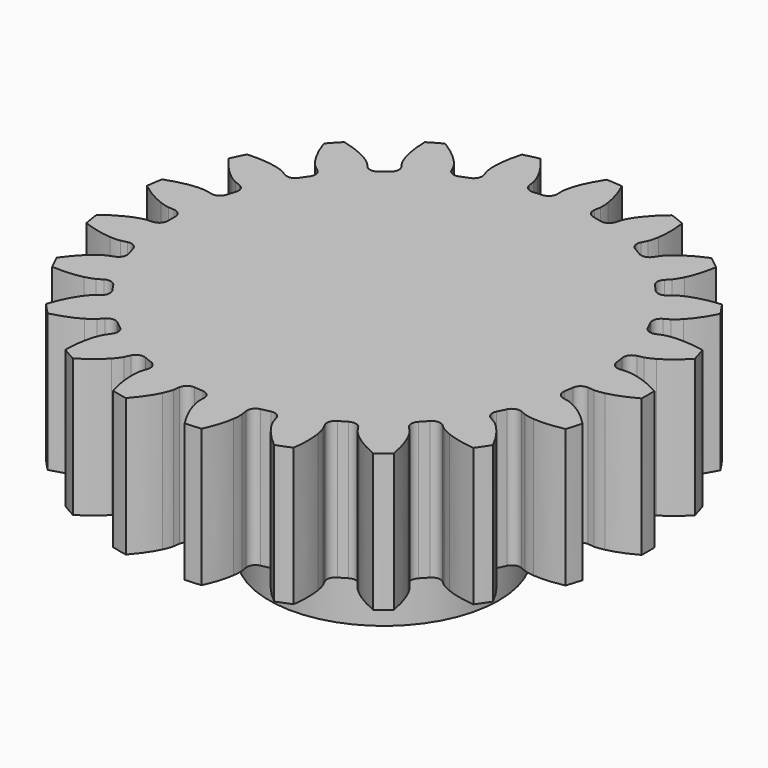
from build123d import *

# Parameters (mm, degrees)
PAD_DEPTH    = 3
SKETCH_R     = 2.5
PAD001_DEPTH = 2


with BuildPart() as part:
    # InvoluteGear → Pad (new body)
    with BuildSketch(Plane.XY):
        with BuildLine():
            Line((4.789511, -0.430795), (4.922653, -0.442395))
            add(Edge.make_bspline(
                [(4.922653, -0.442395), (4.94666, -0.443097), (5.018935, -0.442322), (5.139475, -0.416367)],
                knots=[0, 0, 0, 0, 1, 1, 1, 1], degree=3))
            add(Edge.make_bspline(
                [(5.139475, -0.416367), (5.283716, -0.384851), (5.491453, -0.31757), (5.747878, -0.17494)],
                knots=[0, 0, 0, 0, 1, 1, 1, 1], degree=3))
            ThreePointArc((5.747878, -0.17494), (5.75054, 0), (5.747878, 0.17494))
            add(Edge.make_bspline(
                [(5.747878, 0.17494), (5.491453, 0.31757), (5.283716, 0.384851), (5.139475, 0.416367)],
                knots=[0, 0, 0, 0, 1, 1, 1, 1], degree=3))
            add(Edge.make_bspline(
                [(5.139475, 0.416367), (5.018935, 0.442322), (4.94666, 0.443097), (4.922653, 0.442395)],
                knots=[0, 0, 0, 0, 1, 1, 1, 1], degree=3))
            Line((4.922653, 0.442395), (4.789511, 0.430795))
            ThreePointArc((4.789511, 0.430795), (4.655422, 0.471258), (4.586782, 0.593346))
            ThreePointArc((4.586782, 0.593346), (4.573343, 0.68932), (4.557896, 0.784992))
            ThreePointArc((4.557896, 0.784992), (4.587501, 0.921889), (4.703706, 1.000077))
            Line((4.703706, 1.000077), (4.834351, 1.028237))
            add(Edge.make_bspline(
                [(4.834351, 1.028237), (4.857498, 1.034642), (4.926335, 1.056686), (5.033869, 1.117018)],
                knots=[0, 0, 0, 0, 1, 1, 1, 1], degree=3))
            add(Edge.make_bspline(
                [(5.033869, 1.117018), (5.162413, 1.189649), (5.341089, 1.315173), (5.54408, 1.527049)],
                knots=[0, 0, 0, 0, 1, 1, 1, 1], degree=3))
            ThreePointArc((5.54408, 1.527049), (5.495059, 1.695001), (5.440951, 1.861385))
            add(Edge.make_bspline(
                [(5.440951, 1.861385), (5.153878, 1.922096), (4.935539, 1.925156), (4.788416, 1.912756)],
                knots=[0, 0, 0, 0, 1, 1, 1, 1], degree=3))
            add(Edge.make_bspline(
                [(4.788416, 1.912756), (4.665581, 1.902028), (4.596288, 1.881465), (4.573555, 1.873718)],
                knots=[0, 0, 0, 0, 1, 1, 1, 1], degree=3))
            Line((4.573555, 1.873718), (4.449747, 1.82339))
            ThreePointArc((4.449747, 1.82339), (4.309689, 1.822531), (4.208112, 1.918963))
            ThreePointArc((4.208112, 1.918963), (4.166981, 2.006712), (4.12402, 2.093581))
            ThreePointArc((4.12402, 2.093581), (4.111959, 2.233121), (4.199955, 2.342088))
            Line((4.199955, 2.342088), (4.316496, 2.407505))
            add(Edge.make_bspline(
                [(4.316496, 2.407505), (4.336727, 2.420449), (4.396008, 2.461803), (4.480982, 2.551151)],
                knots=[0, 0, 0, 0, 1, 1, 1, 1], degree=3))
            add(Edge.make_bspline(
                [(4.480982, 2.551151), (4.582406, 2.658444), (4.716145, 2.831057), (4.847667, 3.093353)],
                knots=[0, 0, 0, 0, 1, 1, 1, 1], degree=3))
            ThreePointArc((4.847667, 3.093353), (4.751319, 3.239394), (4.650572, 3.382437))
            add(Edge.make_bspline(
                [(4.650572, 3.382437), (4.358358, 3.355835), (4.148817, 3.294402), (4.011886, 3.239188)],
                knots=[0, 0, 0, 0, 1, 1, 1, 1], degree=3))
            add(Edge.make_bspline(
                [(4.011886, 3.239188), (3.89767, 3.192731), (3.837517, 3.152656), (3.818076, 3.138553)],
                knots=[0, 0, 0, 0, 1, 1, 1, 1], degree=3))
            Line((3.818076, 3.138553), (3.714604, 3.053967))
            ThreePointArc((3.714604, 3.053967), (3.581021, 3.011864), (3.455533, 3.074071))
            ThreePointArc((3.455533, 3.074071), (3.390365, 3.145799), (3.323708, 3.216145))
            ThreePointArc((3.323708, 3.216145), (3.271053, 3.345931), (3.323021, 3.475994))
            Line((3.323021, 3.475994), (3.415102, 3.572856))
            add(Edge.make_bspline(
                [(3.415102, 3.572856), (3.430619, 3.591188), (3.475077, 3.648178), (3.529939, 3.758603)],
                knots=[0, 0, 0, 0, 1, 1, 1, 1], degree=3))
            add(Edge.make_bspline(
                [(3.529939, 3.758603), (3.595232, 3.891025), (3.672152, 4.095389), (3.720517, 4.384799)],
                knots=[0, 0, 0, 0, 1, 1, 1, 1], degree=3))
            ThreePointArc((3.720517, 4.384799), (3.585403, 4.495953), (3.44697, 4.602945))
            add(Edge.make_bspline(
                [(3.44697, 4.602945), (3.175578, 4.491393), (2.993454, 4.370927), (2.878881, 4.277804)],
                knots=[0, 0, 0, 0, 1, 1, 1, 1], degree=3))
            add(Edge.make_bspline(
                [(2.878881, 4.277804), (2.783433, 4.199745), (2.737765, 4.14372), (2.723345, 4.124513)],
                knots=[0, 0, 0, 0, 1, 1, 1, 1], degree=3))
            Line((2.723345, 4.124513), (2.649402, 4.013187))
            ThreePointArc((2.649402, 4.013187), (2.534164, 3.93358), (2.395915, 3.956035))
            ThreePointArc((2.395915, 3.956035), (2.3125, 4.005367), (2.22807, 4.052941))
            ThreePointArc((2.22807, 4.052941), (2.139498, 4.16144), (2.150821, 4.301043))
            Line((2.150821, 4.301043), (2.210261, 4.420743))
            add(Edge.make_bspline(
                [(2.210261, 4.420743), (2.219685, 4.442834), (2.245369, 4.510397), (2.265247, 4.632087)],
                knots=[0, 0, 0, 0, 1, 1, 1, 1], degree=3))
            add(Edge.make_bspline(
                [(2.265247, 4.632087), (2.288606, 4.777871), (2.301871, 4.995828), (2.262783, 5.286636)],
                knots=[0, 0, 0, 0, 1, 1, 1, 1], degree=3))
            ThreePointArc((2.262783, 5.286636), (2.100908, 5.353026), (1.937089, 5.414461))
            add(Edge.make_bspline(
                [(1.937089, 5.414461), (1.710635, 5.227871), (1.57211, 5.059075), (1.490076, 4.936319)],
                knots=[0, 0, 0, 0, 1, 1, 1, 1], degree=3))
            add(Edge.make_bspline(
                [(1.490076, 4.936319), (1.421877, 4.833594), (1.394751, 4.766597), (1.386633, 4.743993)],
                knots=[0, 0, 0, 0, 1, 1, 1, 1], degree=3))
            Line((1.386633, 4.743993), (1.348789, 4.615817))
            ThreePointArc((1.348789, 4.615817), (1.262135, 4.50578), (1.123409, 4.486488))
            ThreePointArc((1.123409, 4.486488), (1.029159, 4.509042), (0.934457, 4.529615))
            ThreePointArc((0.934457, 4.529615), (0.81784, 4.607188), (0.787511, 4.743925))
            Line((0.787511, 4.743925), (0.809028, 4.875828))
            add(Edge.make_bspline(
                [(0.809028, 4.875828), (0.811522, 4.899715), (0.816151, 4.971847), (0.799277, 5.093989)],
                knots=[0, 0, 0, 0, 1, 1, 1, 1], degree=3))
            add(Edge.make_bspline(
                [(0.799277, 5.093989), (0.778628, 5.240182), (0.727059, 5.452366), (0.60399, 5.718732)],
                knots=[0, 0, 0, 0, 1, 1, 1, 1], degree=3))
            ThreePointArc((0.60399, 5.718732), (0.429738, 5.73446), (0.255089, 5.744879))
            add(Edge.make_bspline(
                [(0.255089, 5.744879), (0.093694, 5.49983), (0.011077, 5.297702), (-0.03113, 5.156219)],
                knots=[0, 0, 0, 0, 1, 1, 1, 1], degree=3))
            add(Edge.make_bspline(
                [(-0.03113, 5.156219), (-0.06602, 5.037956), (-0.072193, 4.96594), (-0.073288, 4.941948)],
                knots=[0, 0, 0, 0, 1, 1, 1, 1], degree=3))
            Line((-0.073288, 4.941948), (-0.07167, 4.808312))
            ThreePointArc((-0.07167, 4.808312), (-0.12204, 4.677622), (-0.248916, 4.618297))
            ThreePointArc((-0.248916, 4.618297), (-0.345627, 4.612068), (-0.442185, 4.603813))
            ThreePointArc((-0.442185, 4.603813), (-0.576486, 4.643566), (-0.645772, 4.765289))
            Line((-0.645772, 4.765289), (-0.66409, 4.897673))
            add(Edge.make_bspline(
                [(-0.66409, 4.897673), (-0.668748, 4.921235), (-0.685586, 4.991526), (-0.737713, 5.103268)],
                knots=[0, 0, 0, 0, 1, 1, 1, 1], degree=3))
            add(Edge.make_bspline(
                [(-0.737713, 5.103268), (-0.800535, 5.23688), (-0.912355, 5.424437), (-1.108469, 5.642694)],
                knots=[0, 0, 0, 0, 1, 1, 1, 1], degree=3))
            ThreePointArc((-1.108469, 5.642694), (-1.279615, 5.606362), (-1.449577, 5.564839))
            add(Edge.make_bspline(
                [(-1.449577, 5.564839), (-1.531572, 5.283105), (-1.55094, 5.065605), (-1.549569, 4.917967)],
                knots=[0, 0, 0, 0, 1, 1, 1, 1], degree=3))
            add(Edge.make_bspline(
                [(-1.549569, 4.917967), (-1.548051, 4.794674), (-1.532723, 4.724038), (-1.526696, 4.700789)],
                knots=[0, 0, 0, 0, 1, 1, 1, 1], degree=3))
            Line((-1.526696, 4.700789), (-1.485761, 4.573567))
            ThreePointArc((-1.485761, 4.573567), (-1.495371, 4.433836), (-1.599124, 4.33975))
            ThreePointArc((-1.599124, 4.33975), (-1.689702, 4.305291), (-1.779538, 4.268942))
            ThreePointArc((-1.779538, 4.268942), (-1.91959, 4.267343), (-2.021676, 4.363236))
            Line((-2.021676, 4.363236), (-2.078201, 4.48434))
            add(Edge.make_bspline(
                [(-2.078201, 4.48434), (-2.089597, 4.505481), (-2.126405, 4.567687), (-2.209153, 4.6591)],
                knots=[0, 0, 0, 0, 1, 1, 1, 1], degree=3))
            add(Edge.make_bspline(
                [(-2.209153, 4.6591), (-2.308567, 4.768258), (-2.470702, 4.914523), (-2.722436, 5.065278)],
                knots=[0, 0, 0, 0, 1, 1, 1, 1], degree=3))
            ThreePointArc((-2.722436, 5.065278), (-2.87527, 4.980113), (-3.025441, 4.890338))
            add(Edge.make_bspline(
                [(-3.025441, 4.890338), (-3.020751, 4.596953), (-2.975149, 4.383407), (-2.930322, 4.242732)],
                knots=[0, 0, 0, 0, 1, 1, 1, 1], degree=3))
            add(Edge.make_bspline(
                [(-2.930322, 4.242732), (-2.89253, 4.125364), (-2.857063, 4.062385), (-2.844452, 4.041945)],
                knots=[0, 0, 0, 0, 1, 1, 1, 1], degree=3))
            Line((-2.844452, 4.041945), (-2.767835, 3.93244))
            ThreePointArc((-2.767835, 3.93244), (-2.735832, 3.796085), (-2.807243, 3.675596))
            ThreePointArc((-2.807243, 3.675596), (-2.88364, 3.615971), (-2.958771, 3.554757))
            ThreePointArc((-2.958771, 3.554757), (-3.092129, 3.511948), (-3.217945, 3.57349))
            Line((-3.217945, 3.57349), (-3.307655, 3.672552))
            add(Edge.make_bspline(
                [(-3.307655, 3.672552), (-3.324776, 3.689396), (-3.378284, 3.737988), (-3.4843, 3.80095)],
                knots=[0, 0, 0, 0, 1, 1, 1, 1], degree=3))
            add(Edge.make_bspline(
                [(-3.4843, 3.80095), (-3.611473, 3.875956), (-3.809517, 3.967932), (-4.094503, 4.03779)],
                knots=[0, 0, 0, 0, 1, 1, 1, 1], degree=3))
            ThreePointArc((-4.094503, 4.03779), (-4.215444, 3.91136), (-4.332482, 3.78131))
            add(Edge.make_bspline(
                [(-4.332482, 3.78131), (-4.241523, 3.502341), (-4.135003, 3.311724), (-4.050704, 3.190512)],
                knots=[0, 0, 0, 0, 1, 1, 1, 1], degree=3))
            add(Edge.make_bspline(
                [(-4.050704, 3.190512), (-3.979996, 3.089498), (-3.92754, 3.03977), (-3.909465, 3.023956)],
                knots=[0, 0, 0, 0, 1, 1, 1, 1], degree=3))
            Line((-3.909465, 3.023956), (-3.803975, 2.941899))
            ThreePointArc((-3.803975, 2.941899), (-3.733203, 2.821035), (-3.765927, 2.68485))
            ThreePointArc((-3.765927, 2.68485), (-3.821354, 2.605355), (-3.875104, 2.524716))
            ThreePointArc((-3.875104, 2.524716), (-3.989919, 2.444501), (-4.128285, 2.466224))
            Line((-4.128285, 2.466224), (-4.243209, 2.534443))
            add(Edge.make_bspline(
                [(-4.243209, 2.534443), (-4.264534, 2.545491), (-4.329988, 2.576153), (-4.449852, 2.605069)],
                knots=[0, 0, 0, 0, 1, 1, 1, 1], degree=3))
            add(Edge.make_bspline(
                [(-4.449852, 2.605069), (-4.593483, 2.639258), (-4.80984, 2.668773), (-5.102755, 2.651526)],
                knots=[0, 0, 0, 0, 1, 1, 1, 1], degree=3))
            ThreePointArc((-5.102755, 2.651526), (-5.181057, 2.495066), (-5.254563, 2.336295))
            add(Edge.make_bspline(
                [(-5.254563, 2.336295), (-5.085417, 2.096531), (-4.927445, 1.94578), (-4.811162, 1.854801)],
                knots=[0, 0, 0, 0, 1, 1, 1, 1], degree=3))
            add(Edge.make_bspline(
                [(-4.811162, 1.854801), (-4.713821, 1.779116), (-4.649039, 1.747059), (-4.627105, 1.737275)],
                knots=[0, 0, 0, 0, 1, 1, 1, 1], degree=3))
            Line((-4.627105, 1.737275), (-4.502115, 1.689958))
            ThreePointArc((-4.502115, 1.689958), (-4.398862, 1.595323), (-4.389991, 1.455544))
            ThreePointArc((-4.389991, 1.455544), (-4.419524, 1.363243), (-4.447117, 1.270343))
            ThreePointArc((-4.447117, 1.270343), (-4.533188, 1.159849), (-4.671809, 1.139823))
            Line((-4.671809, 1.139823), (-4.801735, 1.171137))
            add(Edge.make_bspline(
                [(-4.801735, 1.171137), (-4.825369, 1.175409), (-4.896953, 1.185416), (-5.020015, 1.177716)],
                knots=[0, 0, 0, 0, 1, 1, 1, 1], degree=3))
            add(Edge.make_bspline(
                [(-5.020015, 1.177716), (-5.167342, 1.16805), (-5.382787, 1.132482), (-5.657605, 1.029663)],
                knots=[0, 0, 0, 0, 1, 1, 1, 1], degree=3))
            ThreePointArc((-5.657605, 1.029663), (-5.686311, 0.857073), (-5.709752, 0.683691))
            add(Edge.make_bspline(
                [(-5.709752, 0.683691), (-5.47745, 0.504435), (-5.282061, 0.406944), (-5.144128, 0.354282)],
                knots=[0, 0, 0, 0, 1, 1, 1, 1], degree=3))
            add(Edge.make_bspline(
                [(-5.144128, 0.354282), (-5.028803, 0.310651), (-4.95745, 0.299114), (-4.933606, 0.29623)],
                knots=[0, 0, 0, 0, 1, 1, 1, 1], degree=3))
            Line((-4.933606, 0.29623), (-4.800223, 0.287856))
            ThreePointArc((-4.800223, 0.287856), (-4.673662, 0.22786), (-4.623985, 0.096906))
            ThreePointArc((-4.623985, 0.096906), (-4.625, 0), (-4.623985, -0.096906))
            ThreePointArc((-4.623985, -0.096906), (-4.673662, -0.22786), (-4.800223, -0.287856))
            Line((-4.800223, -0.287856), (-4.933606, -0.29623))
            add(Edge.make_bspline(
                [(-4.933606, -0.29623), (-4.95745, -0.299114), (-5.028803, -0.310651), (-5.144128, -0.354282)],
                knots=[0, 0, 0, 0, 1, 1, 1, 1], degree=3))
            add(Edge.make_bspline(
                [(-5.144128, -0.354282), (-5.282061, -0.406944), (-5.47745, -0.504435), (-5.709752, -0.683691)],
                knots=[0, 0, 0, 0, 1, 1, 1, 1], degree=3))
            ThreePointArc((-5.709752, -0.683691), (-5.686311, -0.857073), (-5.657605, -1.029663))
            add(Edge.make_bspline(
                [(-5.657605, -1.029663), (-5.382787, -1.132482), (-5.167342, -1.16805), (-5.020015, -1.177716)],
                knots=[0, 0, 0, 0, 1, 1, 1, 1], degree=3))
            add(Edge.make_bspline(
                [(-5.020015, -1.177716), (-4.896953, -1.185416), (-4.825369, -1.175409), (-4.801735, -1.171137)],
                knots=[0, 0, 0, 0, 1, 1, 1, 1], degree=3))
            Line((-4.801735, -1.171137), (-4.671809, -1.139823))
            ThreePointArc((-4.671809, -1.139823), (-4.533188, -1.159849), (-4.447117, -1.270343))
            ThreePointArc((-4.447117, -1.270343), (-4.419524, -1.363243), (-4.389991, -1.455544))
            ThreePointArc((-4.389991, -1.455544), (-4.398862, -1.595323), (-4.502115, -1.689958))
            Line((-4.502115, -1.689958), (-4.627105, -1.737275))
            add(Edge.make_bspline(
                [(-4.627105, -1.737275), (-4.649039, -1.747059), (-4.713821, -1.779116), (-4.811162, -1.854801)],
                knots=[0, 0, 0, 0, 1, 1, 1, 1], degree=3))
            add(Edge.make_bspline(
                [(-4.811162, -1.854801), (-4.927445, -1.94578), (-5.085417, -2.096531), (-5.254563, -2.336295)],
                knots=[0, 0, 0, 0, 1, 1, 1, 1], degree=3))
            ThreePointArc((-5.254563, -2.336295), (-5.181057, -2.495066), (-5.102755, -2.651526))
            add(Edge.make_bspline(
                [(-5.102755, -2.651526), (-4.80984, -2.668773), (-4.593483, -2.639258), (-4.449852, -2.605069)],
                knots=[0, 0, 0, 0, 1, 1, 1, 1], degree=3))
            add(Edge.make_bspline(
                [(-4.449852, -2.605069), (-4.329988, -2.576153), (-4.264534, -2.545491), (-4.243209, -2.534443)],
                knots=[0, 0, 0, 0, 1, 1, 1, 1], degree=3))
            Line((-4.243209, -2.534443), (-4.128285, -2.466224))
            ThreePointArc((-4.128285, -2.466224), (-3.989919, -2.444501), (-3.875104, -2.524716))
            ThreePointArc((-3.875104, -2.524716), (-3.821354, -2.605355), (-3.765927, -2.68485))
            ThreePointArc((-3.765927, -2.68485), (-3.733203, -2.821035), (-3.803975, -2.941899))
            Line((-3.803975, -2.941899), (-3.909465, -3.023956))
            add(Edge.make_bspline(
                [(-3.909465, -3.023956), (-3.92754, -3.03977), (-3.979996, -3.089498), (-4.050704, -3.190512)],
                knots=[0, 0, 0, 0, 1, 1, 1, 1], degree=3))
            add(Edge.make_bspline(
                [(-4.050704, -3.190512), (-4.135003, -3.311724), (-4.241523, -3.502341), (-4.332482, -3.78131)],
                knots=[0, 0, 0, 0, 1, 1, 1, 1], degree=3))
            ThreePointArc((-4.332482, -3.78131), (-4.215444, -3.91136), (-4.094503, -4.03779))
            add(Edge.make_bspline(
                [(-4.094503, -4.03779), (-3.809517, -3.967932), (-3.611473, -3.875956), (-3.4843, -3.80095)],
                knots=[0, 0, 0, 0, 1, 1, 1, 1], degree=3))
            add(Edge.make_bspline(
                [(-3.4843, -3.80095), (-3.378284, -3.737988), (-3.324776, -3.689396), (-3.307655, -3.672552)],
                knots=[0, 0, 0, 0, 1, 1, 1, 1], degree=3))
            Line((-3.307655, -3.672552), (-3.217945, -3.57349))
            ThreePointArc((-3.217945, -3.57349), (-3.092129, -3.511948), (-2.958771, -3.554757))
            ThreePointArc((-2.958771, -3.554757), (-2.88364, -3.615971), (-2.807243, -3.675596))
            ThreePointArc((-2.807243, -3.675596), (-2.735832, -3.796085), (-2.767835, -3.93244))
            Line((-2.767835, -3.93244), (-2.844452, -4.041945))
            add(Edge.make_bspline(
                [(-2.844452, -4.041945), (-2.857063, -4.062385), (-2.89253, -4.125364), (-2.930322, -4.242732)],
                knots=[0, 0, 0, 0, 1, 1, 1, 1], degree=3))
            add(Edge.make_bspline(
                [(-2.930322, -4.242732), (-2.975149, -4.383407), (-3.020751, -4.596953), (-3.025441, -4.890338)],
                knots=[0, 0, 0, 0, 1, 1, 1, 1], degree=3))
            ThreePointArc((-3.025441, -4.890338), (-2.87527, -4.980113), (-2.722436, -5.065278))
            add(Edge.make_bspline(
                [(-2.722436, -5.065278), (-2.470702, -4.914523), (-2.308567, -4.768258), (-2.209153, -4.6591)],
                knots=[0, 0, 0, 0, 1, 1, 1, 1], degree=3))
            add(Edge.make_bspline(
                [(-2.209153, -4.6591), (-2.126405, -4.567687), (-2.089597, -4.505481), (-2.078201, -4.48434)],
                knots=[0, 0, 0, 0, 1, 1, 1, 1], degree=3))
            Line((-2.078201, -4.48434), (-2.021676, -4.363236))
            ThreePointArc((-2.021676, -4.363236), (-1.91959, -4.267343), (-1.779538, -4.268942))
            ThreePointArc((-1.779538, -4.268942), (-1.689702, -4.305291), (-1.599124, -4.33975))
            ThreePointArc((-1.599124, -4.33975), (-1.495371, -4.433836), (-1.485761, -4.573567))
            Line((-1.485761, -4.573567), (-1.526696, -4.700789))
            add(Edge.make_bspline(
                [(-1.526696, -4.700789), (-1.532723, -4.724038), (-1.548051, -4.794674), (-1.549569, -4.917967)],
                knots=[0, 0, 0, 0, 1, 1, 1, 1], degree=3))
            add(Edge.make_bspline(
                [(-1.549569, -4.917967), (-1.55094, -5.065605), (-1.531572, -5.283105), (-1.449577, -5.564839)],
                knots=[0, 0, 0, 0, 1, 1, 1, 1], degree=3))
            ThreePointArc((-1.449577, -5.564839), (-1.279615, -5.606362), (-1.108469, -5.642694))
            add(Edge.make_bspline(
                [(-1.108469, -5.642694), (-0.912355, -5.424437), (-0.800535, -5.23688), (-0.737713, -5.103268)],
                knots=[0, 0, 0, 0, 1, 1, 1, 1], degree=3))
            add(Edge.make_bspline(
                [(-0.737713, -5.103268), (-0.685586, -4.991526), (-0.668748, -4.921235), (-0.66409, -4.897673)],
                knots=[0, 0, 0, 0, 1, 1, 1, 1], degree=3))
            Line((-0.66409, -4.897673), (-0.645772, -4.765289))
            ThreePointArc((-0.645772, -4.765289), (-0.576486, -4.643566), (-0.442185, -4.603813))
            ThreePointArc((-0.442185, -4.603813), (-0.345627, -4.612068), (-0.248916, -4.618297))
            ThreePointArc((-0.248916, -4.618297), (-0.12204, -4.677622), (-0.07167, -4.808312))
            Line((-0.07167, -4.808312), (-0.073288, -4.941948))
            add(Edge.make_bspline(
                [(-0.073288, -4.941948), (-0.072193, -4.96594), (-0.06602, -5.037956), (-0.03113, -5.156219)],
                knots=[0, 0, 0, 0, 1, 1, 1, 1], degree=3))
            add(Edge.make_bspline(
                [(-0.03113, -5.156219), (0.011077, -5.297702), (0.093694, -5.49983), (0.255089, -5.744879)],
                knots=[0, 0, 0, 0, 1, 1, 1, 1], degree=3))
            ThreePointArc((0.255089, -5.744879), (0.429738, -5.73446), (0.60399, -5.718732))
            add(Edge.make_bspline(
                [(0.60399, -5.718732), (0.727059, -5.452366), (0.778628, -5.240182), (0.799277, -5.093989)],
                knots=[0, 0, 0, 0, 1, 1, 1, 1], degree=3))
            add(Edge.make_bspline(
                [(0.799277, -5.093989), (0.816151, -4.971847), (0.811522, -4.899715), (0.809028, -4.875828)],
                knots=[0, 0, 0, 0, 1, 1, 1, 1], degree=3))
            Line((0.809028, -4.875828), (0.787511, -4.743925))
            ThreePointArc((0.787511, -4.743925), (0.81784, -4.607188), (0.934457, -4.529615))
            ThreePointArc((0.934457, -4.529615), (1.029159, -4.509042), (1.123409, -4.486488))
            ThreePointArc((1.123409, -4.486488), (1.262135, -4.50578), (1.348789, -4.615817))
            Line((1.348789, -4.615817), (1.386633, -4.743993))
            add(Edge.make_bspline(
                [(1.386633, -4.743993), (1.394751, -4.766597), (1.421877, -4.833594), (1.490076, -4.936319)],
                knots=[0, 0, 0, 0, 1, 1, 1, 1], degree=3))
            add(Edge.make_bspline(
                [(1.490076, -4.936319), (1.57211, -5.059075), (1.710635, -5.227871), (1.937089, -5.414461)],
                knots=[0, 0, 0, 0, 1, 1, 1, 1], degree=3))
            ThreePointArc((1.937089, -5.414461), (2.100908, -5.353026), (2.262783, -5.286636))
            add(Edge.make_bspline(
                [(2.262783, -5.286636), (2.301871, -4.995828), (2.288606, -4.777871), (2.265247, -4.632087)],
                knots=[0, 0, 0, 0, 1, 1, 1, 1], degree=3))
            add(Edge.make_bspline(
                [(2.265247, -4.632087), (2.245369, -4.510397), (2.219685, -4.442834), (2.210261, -4.420743)],
                knots=[0, 0, 0, 0, 1, 1, 1, 1], degree=3))
            Line((2.210261, -4.420743), (2.150821, -4.301043))
            ThreePointArc((2.150821, -4.301043), (2.139498, -4.16144), (2.22807, -4.052941))
            ThreePointArc((2.22807, -4.052941), (2.3125, -4.005367), (2.395915, -3.956035))
            ThreePointArc((2.395915, -3.956035), (2.534164, -3.93358), (2.649402, -4.013187))
            Line((2.649402, -4.013187), (2.723345, -4.124513))
            add(Edge.make_bspline(
                [(2.723345, -4.124513), (2.737765, -4.14372), (2.783433, -4.199745), (2.878881, -4.277804)],
                knots=[0, 0, 0, 0, 1, 1, 1, 1], degree=3))
            add(Edge.make_bspline(
                [(2.878881, -4.277804), (2.993454, -4.370927), (3.175578, -4.491393), (3.44697, -4.602945)],
                knots=[0, 0, 0, 0, 1, 1, 1, 1], degree=3))
            ThreePointArc((3.44697, -4.602945), (3.585403, -4.495953), (3.720517, -4.384799))
            add(Edge.make_bspline(
                [(3.720517, -4.384799), (3.672152, -4.095389), (3.595232, -3.891025), (3.529939, -3.758603)],
                knots=[0, 0, 0, 0, 1, 1, 1, 1], degree=3))
            add(Edge.make_bspline(
                [(3.529939, -3.758603), (3.475077, -3.648178), (3.430619, -3.591188), (3.415102, -3.572856)],
                knots=[0, 0, 0, 0, 1, 1, 1, 1], degree=3))
            Line((3.415102, -3.572856), (3.323021, -3.475994))
            ThreePointArc((3.323021, -3.475994), (3.271053, -3.345931), (3.323708, -3.216145))
            ThreePointArc((3.323708, -3.216145), (3.390365, -3.145799), (3.455533, -3.074071))
            ThreePointArc((3.455533, -3.074071), (3.581021, -3.011864), (3.714604, -3.053967))
            Line((3.714604, -3.053967), (3.818076, -3.138553))
            add(Edge.make_bspline(
                [(3.818076, -3.138553), (3.837517, -3.152656), (3.89767, -3.192731), (4.011886, -3.239188)],
                knots=[0, 0, 0, 0, 1, 1, 1, 1], degree=3))
            add(Edge.make_bspline(
                [(4.011886, -3.239188), (4.148817, -3.294402), (4.358358, -3.355835), (4.650572, -3.382437)],
                knots=[0, 0, 0, 0, 1, 1, 1, 1], degree=3))
            ThreePointArc((4.650572, -3.382437), (4.751319, -3.239394), (4.847667, -3.093353))
            add(Edge.make_bspline(
                [(4.847667, -3.093353), (4.716145, -2.831057), (4.582406, -2.658444), (4.480982, -2.551151)],
                knots=[0, 0, 0, 0, 1, 1, 1, 1], degree=3))
            add(Edge.make_bspline(
                [(4.480982, -2.551151), (4.396008, -2.461803), (4.336727, -2.420449), (4.316496, -2.407505)],
                knots=[0, 0, 0, 0, 1, 1, 1, 1], degree=3))
            Line((4.316496, -2.407505), (4.199955, -2.342088))
            ThreePointArc((4.199955, -2.342088), (4.111959, -2.233121), (4.12402, -2.093581))
            ThreePointArc((4.12402, -2.093581), (4.166981, -2.006712), (4.208112, -1.918963))
            ThreePointArc((4.208112, -1.918963), (4.309689, -1.822531), (4.449747, -1.82339))
            Line((4.449747, -1.82339), (4.573555, -1.873718))
            add(Edge.make_bspline(
                [(4.573555, -1.873718), (4.596288, -1.881465), (4.665581, -1.902028), (4.788416, -1.912756)],
                knots=[0, 0, 0, 0, 1, 1, 1, 1], degree=3))
            add(Edge.make_bspline(
                [(4.788416, -1.912756), (4.935539, -1.925156), (5.153878, -1.922096), (5.440951, -1.861385)],
                knots=[0, 0, 0, 0, 1, 1, 1, 1], degree=3))
            ThreePointArc((5.440951, -1.861385), (5.495059, -1.695001), (5.54408, -1.527049))
            add(Edge.make_bspline(
                [(5.54408, -1.527049), (5.341089, -1.315173), (5.162413, -1.189649), (5.033869, -1.117018)],
                knots=[0, 0, 0, 0, 1, 1, 1, 1], degree=3))
            add(Edge.make_bspline(
                [(5.033869, -1.117018), (4.926335, -1.056686), (4.857498, -1.034642), (4.834351, -1.028237)],
                knots=[0, 0, 0, 0, 1, 1, 1, 1], degree=3))
            Line((4.834351, -1.028237), (4.703706, -1.000077))
            ThreePointArc((4.703706, -1.000077), (4.587501, -0.921889), (4.557896, -0.784992))
            ThreePointArc((4.557896, -0.784992), (4.573343, -0.68932), (4.586782, -0.593346))
            ThreePointArc((4.586782, -0.593346), (4.655422, -0.471258), (4.789511, -0.430795))
        make_face()
    extrude(amount=PAD_DEPTH)

    # Sketch → Pad001 (join)
    with BuildSketch(Plane.XY):
        Circle(SKETCH_R)
    extrude(amount=-PAD001_DEPTH)


solid = part.part
